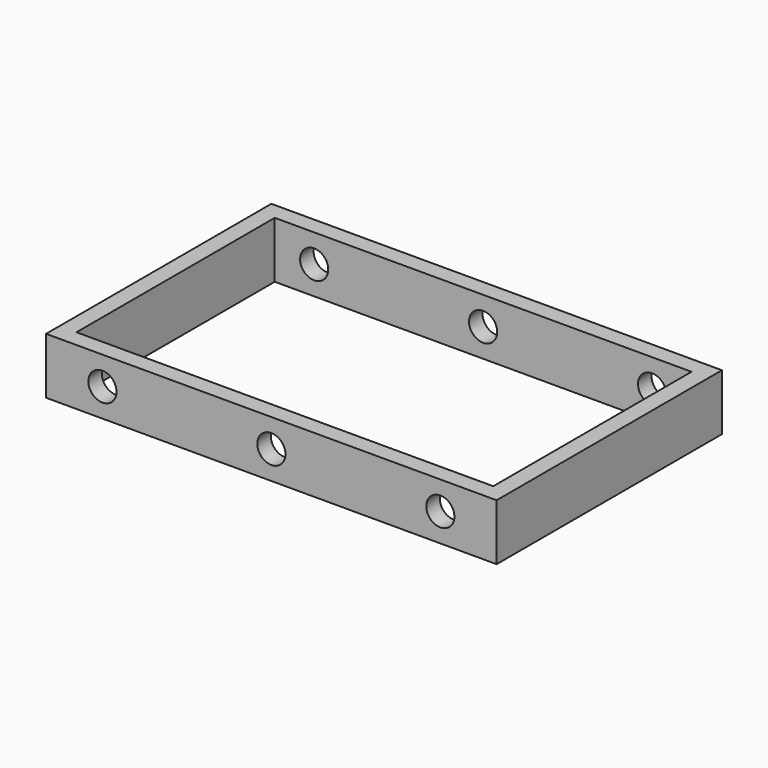
from build123d import *

# Parameters (mm, degrees)
F0_W     = 2032
F0_H     = 1270
F0_W_2   = 1879.6
F0_H_2   = 1117.6
F1_DEPTH = 254
F2_R     = 63.5
F3_DEPTH = 1270.001


with BuildPart() as f1:
    # F0 (on Top) → F1 (new body)
    with BuildSketch(Plane.XY):
        with Locations((1016, 635)):
            Rectangle(F0_W, F0_H)
        with Locations((1016, 635)):
            Rectangle(F0_W_2, F0_H_2, mode=Mode.SUBTRACT)
    extrude(amount=F1_DEPTH)

    # F2 (on Front) → F3 (cut, through all)
    with BuildSketch(Plane.XZ):
        with Locations((1778, 127)):
            Circle(F2_R)
        with Locations((1016, 127)):
            Circle(F2_R)
        with Locations((254, 127)):
            Circle(F2_R)
    extrude(amount=-F3_DEPTH, mode=Mode.SUBTRACT)


solid = f1.part
